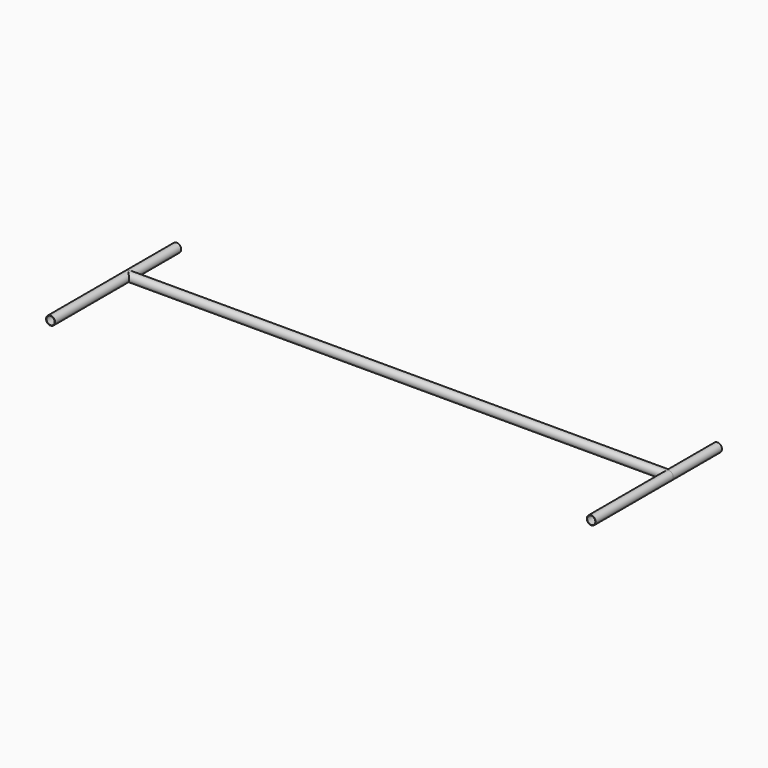
from build123d import *

# Parameters (mm, degrees)
F0_R          = 10
F0_R_2        = 9
F1_DEPTH      = 600
F2_R          = 10
F2_R_2        = 9
F3_DEPTH      = 215
F3_DEPTH_BACK = 135


with BuildPart() as f1:
    # F0 (on Right) → F1 (new body, symmetric)
    with BuildSketch(Plane.YZ):
        Circle(F0_R)
        Circle(F0_R_2, mode=Mode.SUBTRACT)
    extrude(amount=F1_DEPTH, both=True)

    # F2 (on Front) → F3 (join, two sides)
    with BuildSketch(Plane.XZ) as f3_sk:
        with Locations((-600, 0)):
            Circle(F2_R)
        with Locations((-600, 0)):
            Circle(F2_R_2, mode=Mode.SUBTRACT)
        with Locations((600, 0)):
            Circle(F2_R)
        with Locations((600, 0)):
            Circle(F2_R_2, mode=Mode.SUBTRACT)
    extrude(amount=F3_DEPTH)
    extrude(f3_sk.sketch, amount=-F3_DEPTH_BACK)


solid = f1.part
